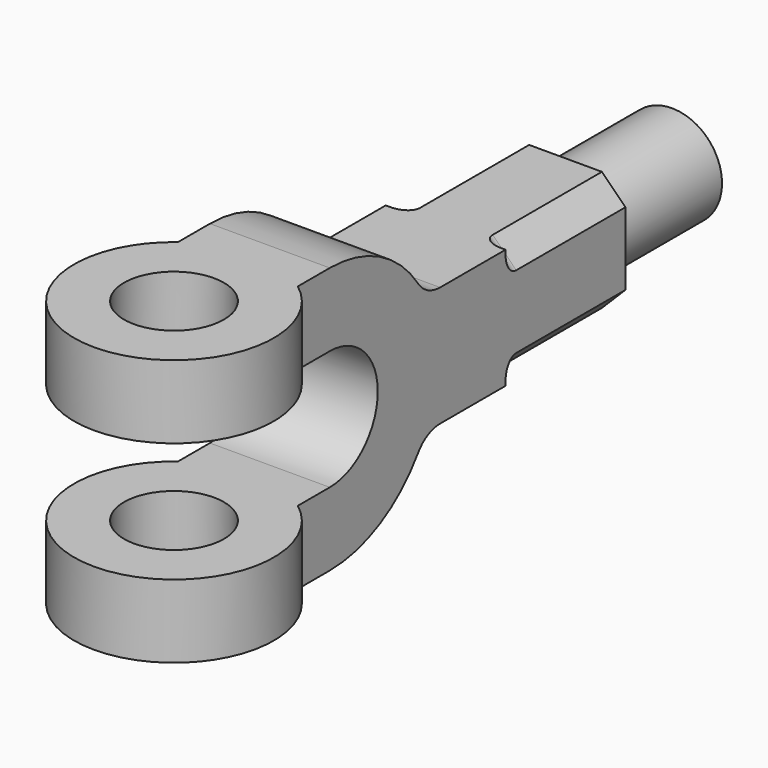
from build123d import *

# Parameters (mm, degrees)
SKETCH_R        = 15
PAD_DEPTH       = 80
POCKET_DEPTH    = 63.001
FILLET_R        = 10
POCKET001_DEPTH = 45
FILLET001_R     = 4
SKETCH003_R     = 15
PAD001_DEPTH    = 40


with BuildPart() as part:
    # Sketch → Pad (new body)
    with BuildSketch(Plane.XY):
        with BuildLine():
            ThreePointArc((-18, 24), (0, -30), (18, 24))
            Line((18, 24), (18, 147))
            Line((18, 147), (-18, 147))
            Line((-18, 147), (-18, 24))
        make_face()
        Circle(SKETCH_R, mode=Mode.SUBTRACT)
    extrude(amount=PAD_DEPTH)

    # Sketch001 (on Face2 of Pad) → Pocket (cut, through all)
    with BuildSketch(Plane(origin=(33, 0, 40), x_dir=(0, 1, 0), z_dir=(1, 0, 0))):
        with BuildLine():
            Line((-34, -18), (36, -18))
            ThreePointArc((36, -18), (54, 0), (36, 18))
            Line((36, 18), (-34, 18))
            Line((-34, 18), (-34, -18))
        make_face()
        with BuildLine():
            ThreePointArc((36, -40), (56.976177, -34.058773), (71.721142, -18))
            Line((147, -18), (71.721142, -18))
            Line((147, -18), (147, -40))
            Line((147, -40), (36, -40))
        make_face()
        with BuildLine():
            Line((147, 18), (71.721142, 18))
            ThreePointArc((71.721142, 18), (56.976177, 34.058773), (36, 40))
            Line((147, 40), (36, 40))
            Line((147, 18), (147, 40))
        make_face()
    extrude(amount=-POCKET_DEPTH, mode=Mode.SUBTRACT)

    # Fillet
    fillet_edges = [part.edges().sort_by_distance(p)[0] for p in [
        (0, 71.721142, 58),
        (0, 71.721142, 22),
    ]]
    fillet(fillet_edges, radius=FILLET_R)

    # Sketch002 (on Face7 of Fillet) → Pocket001 (cut)
    with BuildSketch(Plane(origin=(0, 147, 0), x_dir=(-1, 0, 0), z_dir=(0, 1, 0))):
        Polygon((-18, 58), (-10.928932, 58), (-18, 50.928932), align=None)
        Polygon((-18, 22), (-10.928932, 22), (-18, 29.071068), align=None)
        Polygon((18, 22), (10.928932, 22), (18, 29.071068), align=None)
        Polygon((18, 58), (10.928932, 58), (18, 50.928932), align=None)
    extrude(amount=-POCKET001_DEPTH, mode=Mode.SUBTRACT)

    # Fillet001
    fillet001_edges = [part.edges().sort_by_distance(p)[0] for p in [
        (-14.464466, 102, 25.535534),
        (14.464466, 102, 25.535534),
        (-14.464466, 102, 54.464466),
        (14.464466, 102, 54.464466),
    ]]
    fillet(fillet001_edges, radius=FILLET001_R)

    # Sketch003 (on Face7 of Fillet001) → Pad001 (join)
    with BuildSketch(Plane(origin=(0, 147, 40), x_dir=(-1, 0, 0), z_dir=(0, 1, 0))):
        Circle(SKETCH003_R)
    extrude(amount=PAD001_DEPTH)


solid = part.part
